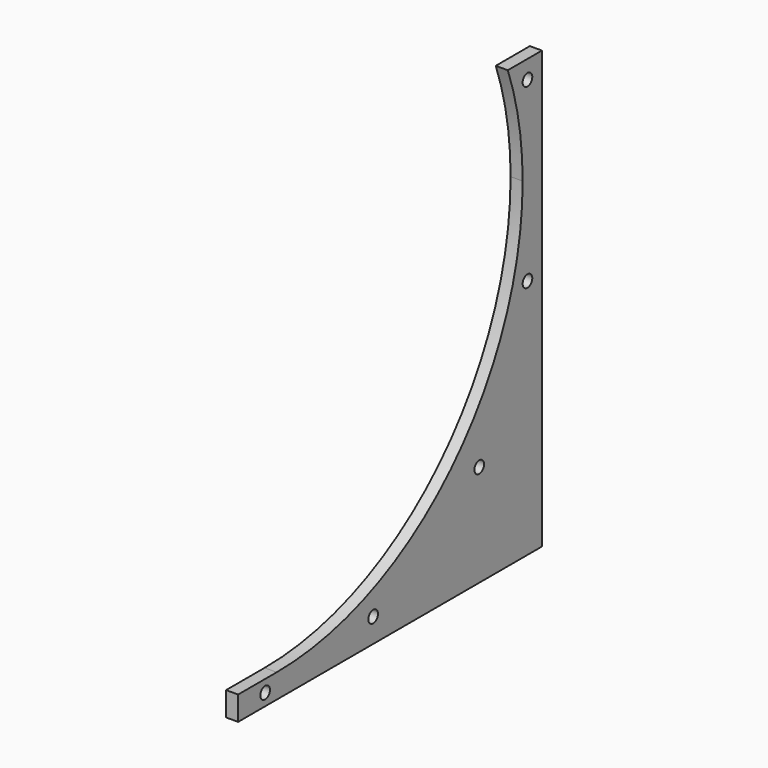
from build123d import *

# Parameters (mm, degrees)
F0_W     = 6.35
F0_H     = 254
F1_DEPTH = 279.4
F3_DEPTH = 25.4
F4_W     = 79.375
F4_H     = 12.7
F5_DEPTH = 25.4
F7_D     = 6.35


with BuildPart() as f1:
    # F0 (on Front) → F1 (new body)
    with BuildSketch(Plane.XZ):
        Rectangle(F0_W, F0_H)
    extrude(amount=F1_DEPTH)

    # F2 (on face) → F3 (cut)
    with BuildSketch(Plane(origin=(-3.175, 0, 0), x_dir=(0, -1, 0), z_dir=(-1, 0, 0))):
        with BuildLine():
            Line((0, 103.006612), (22.465272, 103.006612))
            Line((22.465272, 103.006612), (174.625, 47.625))
            Line((174.625, 47.625), (12.7, 47.625))
            ThreePointArc((12.7, 47.625), (60.126734, -66.873266), (174.625, -114.3))
            Line((174.625, -114.3), (279.4, -114.3))
            Line((279.4, -114.3), (279.4, 127))
            Line((279.4, 127), (0, 127))
            Line((0, 127), (0, 103.006612))
        make_face()
        with BuildLine():
            Line((174.625, 47.625), (22.465272, 103.006612))
            ThreePointArc((22.465272, 103.006612), (15.160005, 75.742981), (12.7, 47.625))
            Line((12.7, 47.625), (174.625, 47.625))
        make_face()
    extrude(amount=-F3_DEPTH, mode=Mode.SUBTRACT)

    # F4 (on face) → F5 (cut)
    with BuildSketch(Plane(origin=(-3.175, 0, 0), x_dir=(0, -1, 0), z_dir=(-1, 0, 0))):
        with Locations((239.7125, -120.65)):
            Rectangle(F4_W, F4_H)
    extrude(amount=-F5_DEPTH, mode=Mode.SUBTRACT)

    # F7 (through all)
    with Locations(Plane.YZ.offset(3.175)):
        with Locations((-9.525, 93.357041), (-9.525, 0), (-41.275, -73.351197), (-111.125, -114.3), (-182.245, -120.65)):
            Hole(F7_D / 2)


solid = f1.part
